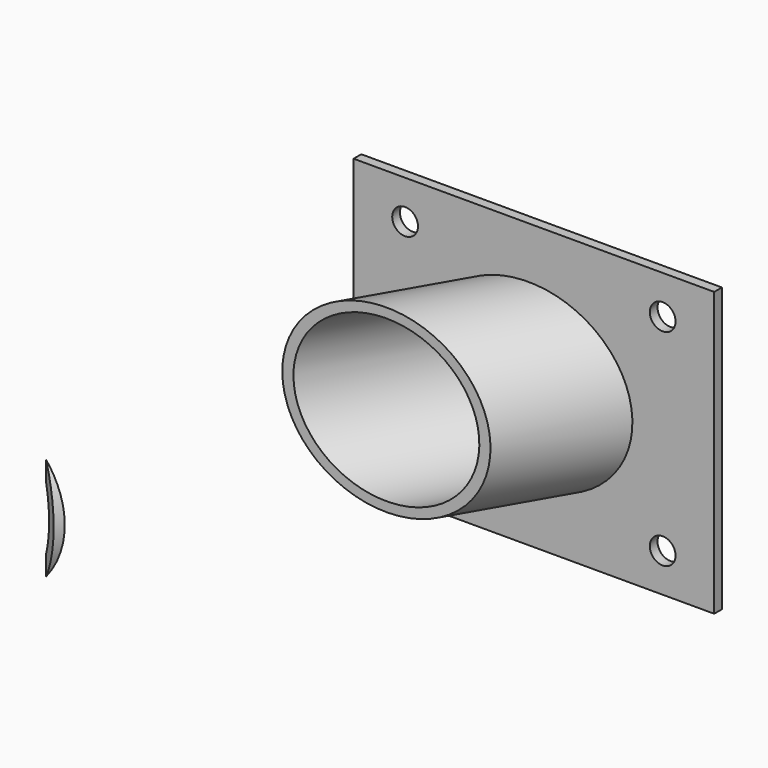
from build123d import *

# Parameters (mm, degrees)
F0_W      = 177.8
F0_H      = 139.7
F1_DEPTH  = 4.7625
F4_R      = 44.45
F5_DEPTH  = 254
F6_R      = 39.6875
F7_DEPTH  = 292.4958291982
F8_W      = 177.8
F8_H      = 76.2
F9_DEPTH  = 50.8
F10_R     = 6.35
F11_DEPTH = 211.9505153341
F12_W     = 279.4
F12_H     = 152.4
F13_DEPTH = 44.577


with BuildPart() as f1:
    # F0 (on Front) → F1 (new body)
    with BuildSketch(Plane.XZ):
        Rectangle(F0_W, F0_H)
    extrude(amount=F1_DEPTH)

    # F4 (on face) → F5 (join)
    with BuildSketch(Plane(origin=(17.4625, 30.2459372272, 0), x_dir=(-0.8660254038, 0.5, 0), z_dir=(0.5, 0.8660254038, 0))):
        Circle(F4_R)
    extrude(amount=-F5_DEPTH)

    # F6 (on face) → F7 (cut, through all)
    with BuildSketch(Plane(origin=(17.4625, 30.2459372272, 0), x_dir=(-0.8660254038, 0.5, 0), z_dir=(0.5, 0.8660254038, 0))):
        Circle(F6_R)
    extrude(amount=-F7_DEPTH, mode=Mode.SUBTRACT)

    # F8 (on Top) → F9 (cut, symmetric)
    with BuildSketch(Plane.XY):
        with Locations((0, 41.275)):
            Rectangle(F8_W, F8_H)
    extrude(amount=F9_DEPTH, both=True, mode=Mode.SUBTRACT)

    # F10 (on face) → F11 (cut, through all)
    with BuildSketch(Plane(origin=(0, 0, 0), x_dir=(-1, 0, 0), z_dir=(0, 1, 0))):
        with Locations((63.5, 50.8)):
            Circle(F10_R)
        with Locations((-63.5, 50.8)):
            Circle(F10_R)
        with Locations((63.5, -50.8)):
            Circle(F10_R)
        with Locations((-63.5, -50.8)):
            Circle(F10_R)
    extrude(amount=-F11_DEPTH, mode=Mode.SUBTRACT)

    # F12 (on Top) → F13 (cut, symmetric)
    with BuildSketch(Plane.XY):
        with Locations((-50.8, -131.7625)):
            Rectangle(F12_W, F12_H)
    extrude(amount=F13_DEPTH, both=True, mode=Mode.SUBTRACT)


solid = f1.part
